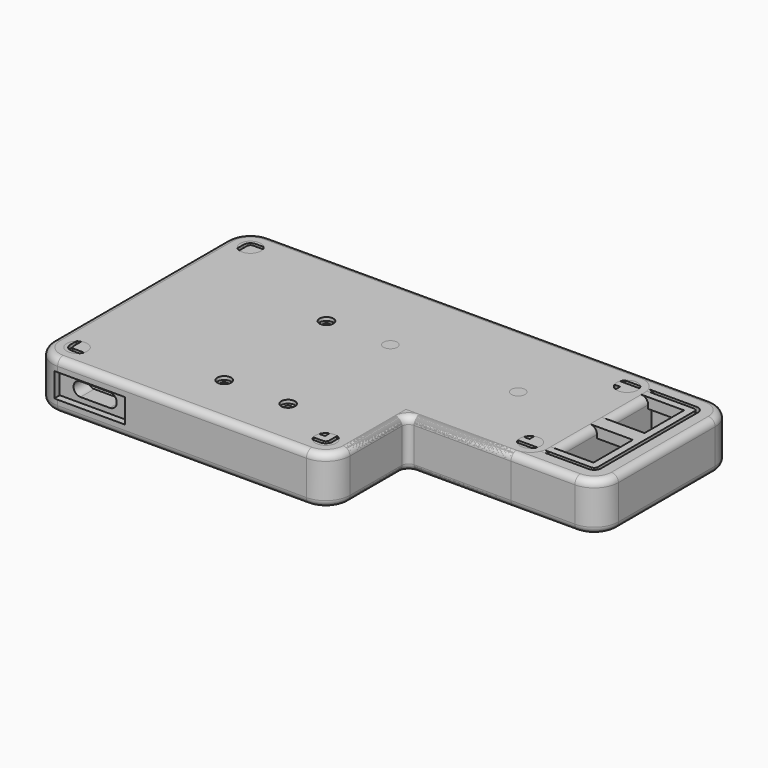
from build123d import *

# Parameters (mm, degrees)
SKETCH_R        = 1
SKETCH_W        = 14.25
SKETCH_H        = 14.25
PAD_DEPTH       = 3
SKETCH002_R     = 2
POCKET_DEPTH    = 1
FILLET_R        = 1
SKETCH001_R     = 1
SKETCH001_W     = 14.25
SKETCH001_H     = 14.25
PAD001_DEPTH    = 3
FILLET001_R     = 1
SKETCH003_R     = 2
POCKET001_DEPTH = 1
SKETCH004_R     = 1
PAD002_DEPTH    = 14
POCKET002_DEPTH = 3.5
POCKET003_DEPTH = 7.5
FILLET002_R     = 7
FILLET003_R     = 2
FILLET004_R     = 2
SKETCH008_R     = 2
SKETCH008_R_2   = 3.5
POCKET004_DEPTH = 1
SKETCH009_W     = 20.5
SKETCH009_H     = 7
POCKET005_DEPTH = 2
POCKET006_DEPTH = 5
SKETCH011_W     = 14.5
SKETCH011_H     = 9
POCKET007_DEPTH = 10
SKETCH005_R     = 1
PAD003_DEPTH    = 14
POCKET008_DEPTH = 3.5
POCKET009_DEPTH = 7.5
FILLET005_R     = 7
FILLET006_R     = 2
SKETCH014_R     = 2
SKETCH014_R_2   = 3
POCKET010_DEPTH = 1
SKETCH015_W     = 20.5
SKETCH015_H     = 7
POCKET011_DEPTH = 2
POCKET012_DEPTH = 5
SKETCH017_W     = 14.5
SKETCH017_H     = 9
POCKET013_DEPTH = 10


with BuildPart() as right_plate:
    # Sketch → Pad (new body)
    with BuildSketch(Plane.XY):
        Polygon((0, 0), (74, 0), (74, 27.75), (129.5, 27.75), (129.5, 64.75), (0, 64.75), align=None)
        with Locations((111, 46.25)):
            Circle(SKETCH_R, mode=Mode.SUBTRACT)
        with Locations((74, 46.25)):
            Circle(SKETCH_R, mode=Mode.SUBTRACT)
        with Locations((37, 46.25)):
            Circle(SKETCH_R, mode=Mode.SUBTRACT)
        with Locations((37, 9.25)):
            Circle(SKETCH_R, mode=Mode.SUBTRACT)
        with Locations((55.5, 9.25)):
            Circle(SKETCH_R, mode=Mode.SUBTRACT)
        with Locations((27.75, 9.25)):
            Rectangle(SKETCH_W, SKETCH_H, mode=Mode.SUBTRACT)
        with Locations((46.25, 9.25)):
            Rectangle(SKETCH_W, SKETCH_H, mode=Mode.SUBTRACT)
        with Locations((64.75, 9.25)):
            Rectangle(SKETCH_W, SKETCH_H, mode=Mode.SUBTRACT)
        with Locations((27.75, 37)):
            Rectangle(SKETCH_W, SKETCH_H, mode=Mode.SUBTRACT)
        with Locations((46.25, 37)):
            Rectangle(SKETCH_W, SKETCH_H, mode=Mode.SUBTRACT)
        with Locations((64.75, 37)):
            Rectangle(SKETCH_W, SKETCH_H, mode=Mode.SUBTRACT)
        with Locations((83.25, 37)):
            Rectangle(SKETCH_W, SKETCH_H, mode=Mode.SUBTRACT)
        with Locations((120.25, 37)):
            Rectangle(SKETCH_W, SKETCH_H, mode=Mode.SUBTRACT)
        with Locations((120.25, 55.5)):
            Rectangle(SKETCH_W, SKETCH_H, mode=Mode.SUBTRACT)
        with Locations((27.75, 55.5)):
            Rectangle(SKETCH_W, SKETCH_H, mode=Mode.SUBTRACT)
        with Locations((46.25, 55.5)):
            Rectangle(SKETCH_W, SKETCH_H, mode=Mode.SUBTRACT)
        with Locations((64.75, 55.5)):
            Rectangle(SKETCH_W, SKETCH_H, mode=Mode.SUBTRACT)
        with Locations((101.75, 37)):
            Rectangle(SKETCH_W, SKETCH_H, mode=Mode.SUBTRACT)
        with Locations((83.25, 55.5)):
            Rectangle(SKETCH_W, SKETCH_H, mode=Mode.SUBTRACT)
        with Locations((101.75, 55.5)):
            Rectangle(SKETCH_W, SKETCH_H, mode=Mode.SUBTRACT)
    extrude(amount=PAD_DEPTH)

    # Sketch002 (on Face73 of Pad) → Pocket (cut)
    with BuildSketch(Plane.XY.offset(3)):
        with Locations((37, 46.25)):
            Circle(SKETCH002_R)
        with Locations((74, 46.25)):
            Circle(SKETCH002_R)
        with Locations((111, 46.25)):
            Circle(SKETCH002_R)
        with Locations((55.5, 9.25)):
            Circle(SKETCH002_R)
        with Locations((37, 9.25)):
            Circle(SKETCH002_R)
    extrude(amount=-POCKET_DEPTH, mode=Mode.SUBTRACT)

    # Fillet
    fillet_edges = [right_plate.edges().sort_by_distance(p)[0] for p in [
        (74, 0, 1.5),
        (74, 27.75, 1.5),
        (129.5, 27.75, 1.5),
        (129.5, 64.75, 1.5),
        (0, 0, 1.5),
        (0, 64.75, 1.5),
    ]]
    fillet(fillet_edges, radius=FILLET_R)


with BuildPart() as right_plate_1:
    # Body placement: moved
    add(right_plate.part.moved(Location((6, 6, 11))))


with BuildPart() as left_plate:
    # Sketch001 → Pad001 (new body)
    with BuildSketch(Plane.XY):
        Polygon((0, 0), (74, 0), (74, 27.75), (111, 27.75), (111, 64.75), (0, 64.75), align=None)
        with Locations((92.5, 46.25)):
            Circle(SKETCH001_R, mode=Mode.SUBTRACT)
        with Locations((55.5, 46.25)):
            Circle(SKETCH001_R, mode=Mode.SUBTRACT)
        with Locations((37, 46.25)):
            Circle(SKETCH001_R, mode=Mode.SUBTRACT)
        with Locations((37, 9.25)):
            Circle(SKETCH001_R, mode=Mode.SUBTRACT)
        with Locations((55.5, 9.25)):
            Circle(SKETCH001_R, mode=Mode.SUBTRACT)
        with Locations((27.75, 9.25)):
            Rectangle(SKETCH001_W, SKETCH001_H, mode=Mode.SUBTRACT)
        with Locations((46.25, 9.25)):
            Rectangle(SKETCH001_W, SKETCH001_H, mode=Mode.SUBTRACT)
        with Locations((64.75, 9.25)):
            Rectangle(SKETCH001_W, SKETCH001_H, mode=Mode.SUBTRACT)
        with Locations((27.75, 37)):
            Rectangle(SKETCH001_W, SKETCH001_H, mode=Mode.SUBTRACT)
        with Locations((46.25, 37)):
            Rectangle(SKETCH001_W, SKETCH001_H, mode=Mode.SUBTRACT)
        with Locations((64.75, 37)):
            Rectangle(SKETCH001_W, SKETCH001_H, mode=Mode.SUBTRACT)
        with Locations((101.75, 37)):
            Rectangle(SKETCH001_W, SKETCH001_H, mode=Mode.SUBTRACT)
        with Locations((101.75, 55.5)):
            Rectangle(SKETCH001_W, SKETCH001_H, mode=Mode.SUBTRACT)
        with Locations((27.75, 55.5)):
            Rectangle(SKETCH001_W, SKETCH001_H, mode=Mode.SUBTRACT)
        with Locations((46.25, 55.5)):
            Rectangle(SKETCH001_W, SKETCH001_H, mode=Mode.SUBTRACT)
        with Locations((83.25, 37)):
            Rectangle(SKETCH001_W, SKETCH001_H, mode=Mode.SUBTRACT)
        with Locations((64.75, 55.5)):
            Rectangle(SKETCH001_W, SKETCH001_H, mode=Mode.SUBTRACT)
        with Locations((83.25, 55.5)):
            Rectangle(SKETCH001_W, SKETCH001_H, mode=Mode.SUBTRACT)
    extrude(amount=PAD001_DEPTH)

    # Fillet001
    fillet001_edges = [left_plate.edges().sort_by_distance(p)[0] for p in [
        (0, 0, 1.5),
        (74, 0, 1.5),
        (74, 27.75, 1.5),
        (111, 27.75, 1.5),
        (111, 64.75, 1.5),
        (0, 64.75, 1.5),
    ]]
    fillet(fillet001_edges, radius=FILLET001_R)

    # Sketch003 (on Face2 of Fillet001) → Pocket001 (cut)
    with BuildSketch(Plane(origin=(0, 0, 0), x_dir=(1, 0, 0), z_dir=(0, 0, -1))):
        with Locations((37, -46.25)):
            Circle(SKETCH003_R)
        with Locations((55.5, -46.25)):
            Circle(SKETCH003_R)
        with Locations((92.5, -46.25)):
            Circle(SKETCH003_R)
        with Locations((55.5, -9.25)):
            Circle(SKETCH003_R)
        with Locations((37, -9.25)):
            Circle(SKETCH003_R)
    extrude(amount=-POCKET001_DEPTH, mode=Mode.SUBTRACT)


with BuildPart() as left_plate_1:
    # Body001 placement: moved
    add(left_plate.part.moved(Location((6, 6, 0))))


with BuildPart() as right_case:
    # Sketch004 → Pad002 (new body)
    with BuildSketch(Plane.XY):
        Polygon((0, 76.75), (0, 0), (86, 0), (86, 27.75), (141.5, 27.75), (141.5, 76.75), align=None)
        with Locations((117, 52.25)):
            Circle(SKETCH004_R, mode=Mode.SUBTRACT)
        with Locations((80, 52.25)):
            Circle(SKETCH004_R, mode=Mode.SUBTRACT)
        with Locations((43, 52.25)):
            Circle(SKETCH004_R, mode=Mode.SUBTRACT)
        with Locations((43, 15.25)):
            Circle(SKETCH004_R, mode=Mode.SUBTRACT)
        with Locations((61.5, 15.25)):
            Circle(SKETCH004_R, mode=Mode.SUBTRACT)
    extrude(amount=PAD002_DEPTH)

    # Sketch006 (on Face13 of Pad002) → Pocket002 (cut)
    with BuildSketch(Plane.XY.offset(14)):
        Polygon((5, 71.75), (5, 5), (81, 5), (81, 32.75), (136.5, 32.75), (136.5, 71.75), align=None)
    extrude(amount=-POCKET002_DEPTH, mode=Mode.SUBTRACT)

    # Sketch007 (on Face20 of Pocket002) → Pocket003 (cut)
    with BuildSketch(Plane.XY.offset(10.5)):
        Polygon((7, 69.75), (7, 7), (79, 7), (79, 34.75), (134.5, 34.75), (134.5, 69.75), align=None)
    extrude(amount=-POCKET003_DEPTH, mode=Mode.SUBTRACT)

    # Fillet002
    fillet002_edges = [right_case.edges().sort_by_distance(p)[0] for p in [
        (0, 0, 7),
        (86, 0, 7),
        (141.5, 27.75, 7),
        (141.5, 76.75, 7),
        (0, 76.75, 7),
    ]]
    fillet(fillet002_edges, radius=FILLET002_R)

    # Fillet003
    fillet003_edges = [right_case.edges().sort_by_distance(p)[0] for p in [
        (79, 7, 6.75),
        (81, 5, 12.25),
        (81, 32.75, 12.25),
        (79, 34.75, 6.75),
        (134.5, 34.75, 6.75),
        (136.5, 32.75, 12.25),
        (86, 27.75, 7),
        (7, 69.75, 6.75),
        (5, 71.75, 12.25),
        (134.5, 69.75, 6.75),
        (136.5, 71.75, 12.25),
        (7, 7, 6.75),
        (5, 5, 12.25),
    ]]
    fillet(fillet003_edges, radius=FILLET003_R)

    # Fillet004
    fillet004_edges = [right_case.edges().sort_by_distance(p)[0] for p in [
        (43, 0, 14),
        (43, 0, 0),
    ]]
    fillet(fillet004_edges, radius=FILLET004_R)

    # Sketch008 (on Face1 of Fillet004) → Pocket004 (cut)
    with BuildSketch(Plane(origin=(0, 0, 0), x_dir=(1, 0, 0), z_dir=(0, 0, -1))):
        with Locations((43, -15.25)):
            Circle(SKETCH008_R)
        with Locations((61.5, -15.25)):
            Circle(SKETCH008_R)
        with Locations((43, -52.25)):
            Circle(SKETCH008_R)
        with Locations((80, -52.25)):
            Circle(SKETCH008_R)
        with Locations((117, -52.25)):
            Circle(SKETCH008_R)
        with Locations((134.5, -34.75)):
            Circle(SKETCH008_R_2)
        with Locations((134.5, -69.75)):
            Circle(SKETCH008_R_2)
        with Locations((7, -69.75)):
            Circle(SKETCH008_R_2)
        with Locations((7, -7)):
            Circle(SKETCH008_R_2)
        with Locations((79, -7)):
            Circle(SKETCH008_R_2)
    extrude(amount=-POCKET004_DEPTH, mode=Mode.SUBTRACT)

    # Sketch009 (on Face24 of Pocket004) → Pocket005 (cut)
    with BuildSketch(Plane.XZ):
        with Locations((16.25, 7)):
            Rectangle(SKETCH009_W, SKETCH009_H)
    extrude(amount=-POCKET005_DEPTH, mode=Mode.SUBTRACT)

    # Sketch010 (on Face68 of Pocket005) → Pocket006 (cut)
    with BuildSketch(Plane.XZ.offset(-2)):
        with BuildLine():
            ThreePointArc((12, 9), (10, 7), (12, 5))
            Line((12, 5), (20.5, 5))
            ThreePointArc((20.5, 5), (22.5, 7), (20.5, 9))
            Line((12, 9), (20.5, 9))
        make_face()
    extrude(amount=-POCKET006_DEPTH, mode=Mode.SUBTRACT)

    # Sketch011 (on Face31 of Pocket006) → Pocket007 (cut)
    with BuildSketch(Plane(origin=(0, 76.75, 0), x_dir=(-1, 0, 0), z_dir=(0, 1, 0))):
        with Locations((-14.25, 6.5)):
            Rectangle(SKETCH011_W, SKETCH011_H)
    extrude(amount=-POCKET007_DEPTH, mode=Mode.SUBTRACT)


with BuildPart() as left_case:
    # Sketch005 → Pad003 (new body)
    with BuildSketch(Plane.XY):
        Polygon((0, 76.75), (0, 0), (86, 0), (86, 27.75), (123, 27.75), (123, 76.75), align=None)
        with Locations((98.5, 52.25)):
            Circle(SKETCH005_R, mode=Mode.SUBTRACT)
        with Locations((61.5, 52.25)):
            Circle(SKETCH005_R, mode=Mode.SUBTRACT)
        with Locations((43, 52.25)):
            Circle(SKETCH005_R, mode=Mode.SUBTRACT)
        with Locations((43, 15.25)):
            Circle(SKETCH005_R, mode=Mode.SUBTRACT)
        with Locations((61.5, 15.25)):
            Circle(SKETCH005_R, mode=Mode.SUBTRACT)
    extrude(amount=PAD003_DEPTH)

    # Sketch012 (on Face12 of Pad003) → Pocket008 (cut)
    with BuildSketch(Plane(origin=(0, 0, 0), x_dir=(1, 0, 0), z_dir=(0, 0, -1))):
        Polygon((118, -71.75), (118, -32.75), (81, -32.75), (81, -5), (5, -5), (5, -71.75), align=None)
    extrude(amount=-POCKET008_DEPTH, mode=Mode.SUBTRACT)

    # Sketch013 (on Face20 of Pocket008) → Pocket009 (cut)
    with BuildSketch(Plane(origin=(0, 0, 3.5), x_dir=(1, 0, 0), z_dir=(0, 0, -1))):
        Polygon((116, -69.75), (116, -34.75), (79, -34.75), (79, -7), (7, -7), (7, -69.75), align=None)
    extrude(amount=-POCKET009_DEPTH, mode=Mode.SUBTRACT)

    # Fillet005
    fillet005_edges = [left_case.edges().sort_by_distance(p)[0] for p in [
        (123, 27.75, 7),
        (86, 0, 7),
        (0, 0, 7),
        (0, 76.75, 7),
        (123, 76.75, 7),
    ]]
    fillet(fillet005_edges, radius=FILLET005_R)

    # Fillet006
    fillet006_edges = [left_case.edges().sort_by_distance(p)[0] for p in [
        (101, 27.75, 0),
        (101, 27.75, 14),
        (7, 69.75, 7.25),
        (5, 71.75, 1.75),
        (7, 7, 7.25),
        (5, 5, 1.75),
        (79, 34.75, 7.25),
        (81, 32.75, 1.75),
        (79, 7, 7.25),
        (81, 5, 1.75),
        (116, 34.75, 7.25),
        (118, 32.75, 1.75),
        (118, 71.75, 1.75),
        (116, 69.75, 7.25),
    ]]
    fillet(fillet006_edges, radius=FILLET006_R)

    # Sketch014 (on Face11 of Fillet006) → Pocket010 (cut)
    with BuildSketch(Plane.XY.offset(14)):
        with Locations((43, 52.25)):
            Circle(SKETCH014_R)
        with Locations((61.5, 52.25)):
            Circle(SKETCH014_R)
        with Locations((98.5, 52.25)):
            Circle(SKETCH014_R)
        with Locations((61.5, 15.25)):
            Circle(SKETCH014_R)
        with Locations((43, 15.25)):
            Circle(SKETCH014_R)
        with Locations((79, 7)):
            Circle(SKETCH014_R_2)
        with Locations((7, 7)):
            Circle(SKETCH014_R_2)
        with Locations((7, 69.75)):
            Circle(SKETCH014_R_2)
        with Locations((116, 69.75)):
            Circle(SKETCH014_R_2)
        with Locations((116, 34.75)):
            Circle(SKETCH014_R_2)
    extrude(amount=-POCKET010_DEPTH, mode=Mode.SUBTRACT)

    # Sketch015 (on Face13 of Pocket010) → Pocket011 (cut)
    with BuildSketch(Plane.XZ):
        with Locations((16.25, 7)):
            Rectangle(SKETCH015_W, SKETCH015_H)
    extrude(amount=-POCKET011_DEPTH, mode=Mode.SUBTRACT)

    # Sketch016 (on Face58 of Pocket011) → Pocket012 (cut)
    with BuildSketch(Plane.XZ.offset(-2)):
        with BuildLine():
            ThreePointArc((12, 9), (10, 7), (12, 5))
            Line((12, 5), (20.5, 5))
            ThreePointArc((20.5, 5), (22.5, 7), (20.5, 9))
            Line((12, 9), (20.5, 9))
        make_face()
    extrude(amount=-POCKET012_DEPTH, mode=Mode.SUBTRACT)

    # Sketch017 (on Face8 of Pocket012) → Pocket013 (cut)
    with BuildSketch(Plane(origin=(0, 76.75, 0), x_dir=(-1, 0, 0), z_dir=(0, 1, 0))):
        with Locations((-14.25, 7.5)):
            Rectangle(SKETCH017_W, SKETCH017_H)
    extrude(amount=-POCKET013_DEPTH, mode=Mode.SUBTRACT)


solid = Compound([right_plate_1.part, left_plate_1.part, right_case.part, left_case.part])
